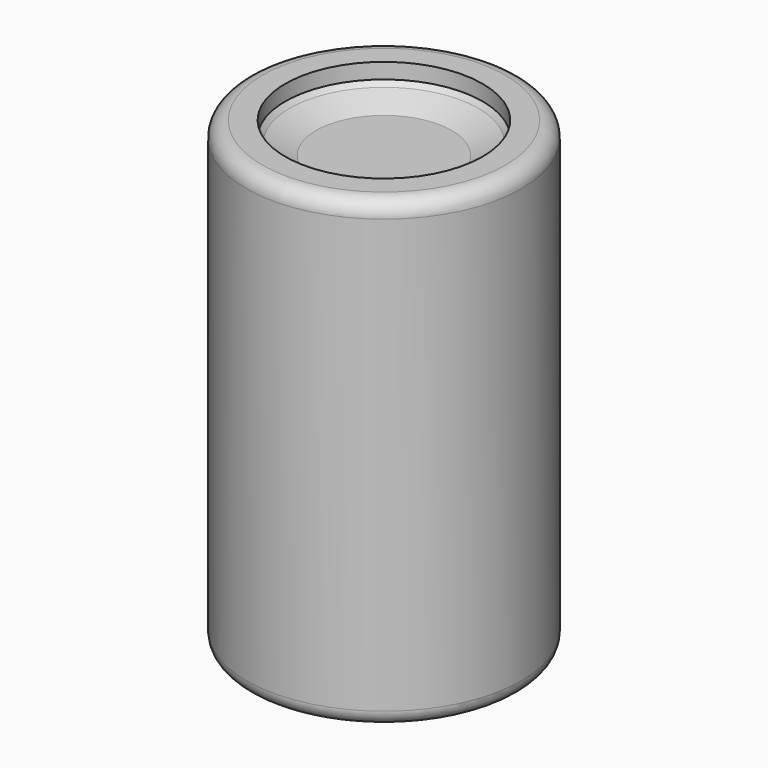
from build123d import *

# Parameters (mm, degrees)
F0_R      = 44.358045
F1_DEPTH  = 150
F2_R      = 5.08
F3_R      = 31.478982
F4_DEPTH  = 20
F5_R      = 31.879321
F6_DEPTH  = 10
F7_SIZE   = 5
F8_SIZE   = 5
F9_R      = 5
F10_R     = 31.442334
F11_DEPTH = 25
F12_R     = 31.785479
F13_DEPTH = 25
F14_R     = 32.188515
F15_DEPTH = 25


with BuildPart() as f1:
    # F0 (on Top) → F1 (new body)
    with BuildSketch(Plane.XY):
        Circle(F0_R)
    extrude(amount=F1_DEPTH)

    # F2
    f2_edges = [f1.edges().sort_by_distance(p)[0] for p in [
        (-44.358045, 0, 150),
    ]]
    fillet(f2_edges, radius=F2_R)

    # F3 (on face) → F4 (join)
    with BuildSketch(Plane.XY.offset(150)):
        Circle(F3_R)
    extrude(amount=-F4_DEPTH)

    # F5 (on face) → F6 (cut)
    with BuildSketch(Plane.XY.offset(150)):
        Circle(F5_R)
    extrude(amount=-F6_DEPTH, mode=Mode.SUBTRACT)

    # F7
    f7_edges = [f1.edges().sort_by_distance(p)[0] for p in [
        (-31.879321, 0, 140),
    ]]
    chamfer(f7_edges, length=F7_SIZE)

    # F8
    f8_edges = [f1.edges().sort_by_distance(p)[0] for p in [
        (-26.879321, 0, 140),
    ]]
    chamfer(f8_edges, length=F8_SIZE)

    # F9
    f9_edges = [f1.edges().sort_by_distance(p)[0] for p in [
        (-44.358045, 0, 0),
    ]]
    fillet(f9_edges, radius=F9_R)

    # F10 (on face) → F11 (join)
    with BuildSketch(Plane(origin=(0, 0, 0), x_dir=(1, 0, 0), z_dir=(0, 0, -1))):
        Circle(F10_R)
    extrude(amount=-F11_DEPTH)

    # F12 (on face) → F13 (join)
    with BuildSketch(Plane(origin=(0, 0, 0), x_dir=(1, 0, 0), z_dir=(0, 0, -1))):
        Circle(F12_R)
    extrude(amount=-F13_DEPTH)

    # F14 (on face) → F15 (join)
    with BuildSketch(Plane(origin=(0, 0, 0), x_dir=(1, 0, 0), z_dir=(0, 0, -1))):
        Circle(F14_R)
    extrude(amount=-F15_DEPTH)


solid = f1.part
